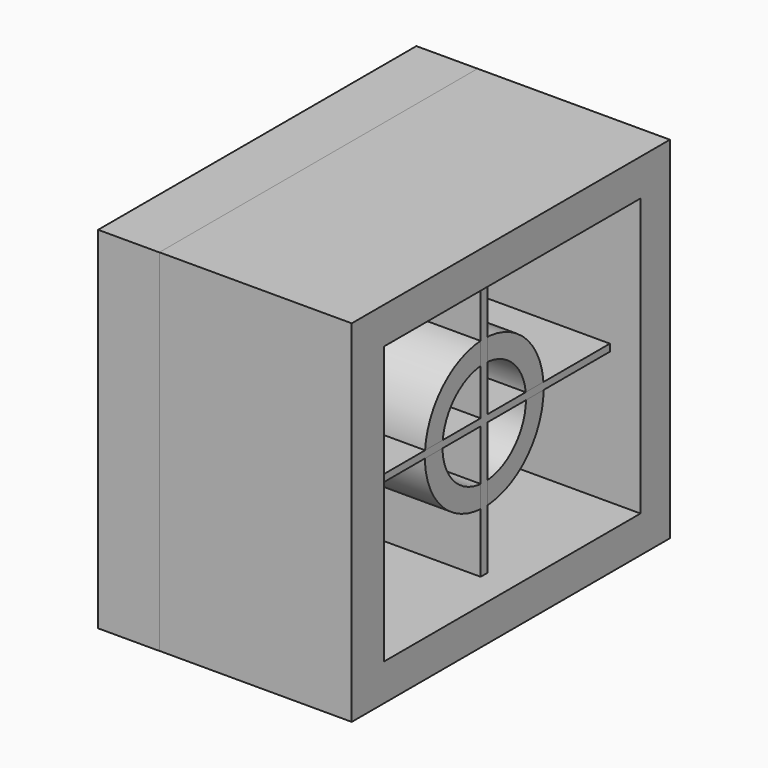
from build123d import *

# Parameters (mm, degrees)
F0_W     = 23.1096856296
F0_H     = 20.3908998519
F0_W_2   = 18.6431074981
F0_H_2   = 16.118519241
F1_DEPTH = 11.176
F2_R     = 4.3140056634
F2_R_2   = 3.0334859744
F3_DEPTH = 9.398
F4_W     = 0.5085384473
F4_H     = 8.6713107303
F4_W_2   = 9.3377223238
F4_H_2   = 0.411956571
F4_W_3   = 9.7904205322
F4_H_3   = 8.671309799
F5_DEPTH = 9.398
F6_W     = 23.1184829026
F6_H     = 20.3894022852
F7_DEPTH = 3.556
F8_R     = 3.1037983992
F8_R_2   = 2.2723247732
F9_DEPTH = 6.35


with BuildPart() as f1:
    # F0 (on Right) → F1 (new body)
    with BuildSketch(Plane.YZ):
        with Locations((-11.5548428148, 10.195449926)):
            Rectangle(F0_W, F0_H)
        with Locations((-11.4577430068, 10.1954488782)):
            Rectangle(F0_W_2, F0_H_2, mode=Mode.SUBTRACT)
    extrude(amount=F1_DEPTH)


with BuildPart() as f3:
    # F2 (on Right) → F3 (new body)
    with BuildSketch(Plane.YZ):
        with Locations((-11.2635437399, 9.9041499197)):
            Circle(F2_R)
        with Locations((-11.2635437399, 9.9041499197)):
            Circle(F2_R_2, mode=Mode.SUBTRACT)
    extrude(amount=F3_DEPTH)


with BuildPart() as f5:
    # F4 (on Right) → F5 (new body)
    with BuildSketch(Plane.YZ):
        with Locations((-11.2711233087, 14.5841143094)):
            Rectangle(F4_W, F4_H)
        with Locations((-6.3479929231, 10.0424806587)):
            Rectangle(F4_W_2, F4_H_2)
        with Locations((-11.2711233087, 10.0424806587)):
            Rectangle(F4_W, F4_H_2)
        with Locations((-16.4206027985, 10.0424806587)):
            Rectangle(F4_W_3, F4_H_2)
        with Locations((-11.2711233087, 5.5008474737)):
            Rectangle(F4_W, F4_H_3)
    extrude(amount=F5_DEPTH)


with BuildPart() as f7:
    # F6 (on Right) → F7 (new body)
    with BuildSketch(Plane.YZ):
        with Locations((-11.5592414513, 10.1947011426)):
            Rectangle(F6_W, F6_H)
    extrude(amount=-F7_DEPTH)


with BuildPart() as f9:
    # F8 (on Right) → F9 (new body)
    with BuildSketch(Plane.YZ):
        with Locations((-6.07004622, 13.982298784)):
            Circle(F8_R)
        with Locations((-6.07004622, 13.982298784)):
            Circle(F8_R_2, mode=Mode.SUBTRACT)
    extrude(amount=-F9_DEPTH)


solid = Compound([f1.part, f3.part, f5.part, f7.part, f9.part])
